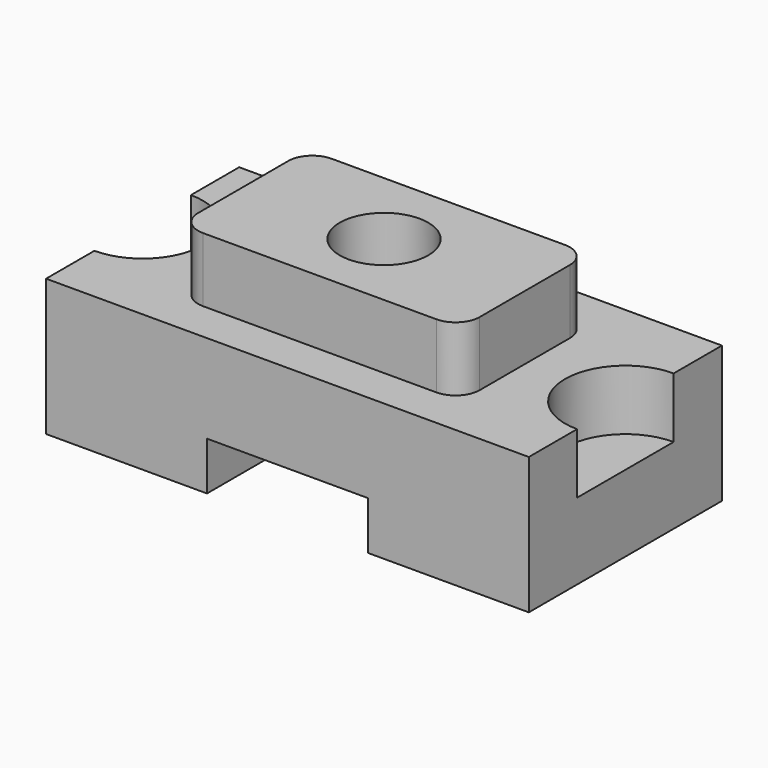
from build123d import *

# Parameters (mm, degrees)
F1_DEPTH = 600
F3_DEPTH = 160
F4_R     = 110
F5_DEPTH = 500.001
F7_DEPTH = 150


with BuildPart() as f1:
    # F0 (on Front) → F1 (new body)
    with BuildSketch(Plane.XZ):
        Polygon((-600, -168.733104), (-600, -508.733104), (-200, -508.733104), (-200, -388.733104), (200, -388.733104), (200, -508.733104), (600, -508.733104), (600, -168.733104), align=None)
    extrude(amount=F1_DEPTH)

    # F2 (on face) → F3 (join)
    with BuildSketch(Plane.XY.offset(-168.733104)):
        with BuildLine():
            ThreePointArc((-350, -440), (-332.426407, -482.426407), (-290, -500))
            Line((-290, -500), (290, -500))
            ThreePointArc((290, -500), (332.426407, -482.426407), (350, -440))
            Line((350, -440), (350, -160))
            ThreePointArc((350, -160), (332.426407, -117.573593), (290, -100))
            Line((290, -100), (-290, -100))
            ThreePointArc((-290, -100), (-332.426407, -117.573593), (-350, -160))
            Line((-350, -160), (-350, -440))
        make_face()
    extrude(amount=F3_DEPTH)

    # F4 (on face) → F5 (cut, through all)
    with BuildSketch(Plane.XY.offset(-8.733104)):
        with Locations((0, -300)):
            Circle(F4_R)
    extrude(amount=-F5_DEPTH, mode=Mode.SUBTRACT)

    # F6 (on face) → F7 (cut)
    with BuildSketch(Plane.XY.offset(-168.733104)):
        with BuildLine():
            Line((-600, -150), (-600, -450))
            ThreePointArc((-600, -450), (-450, -300), (-600, -150))
        make_face()
        with BuildLine():
            Line((600, -450), (600, -150))
            ThreePointArc((600, -150), (450, -300), (600, -450))
        make_face()
    extrude(amount=-F7_DEPTH, mode=Mode.SUBTRACT)


solid = f1.part
